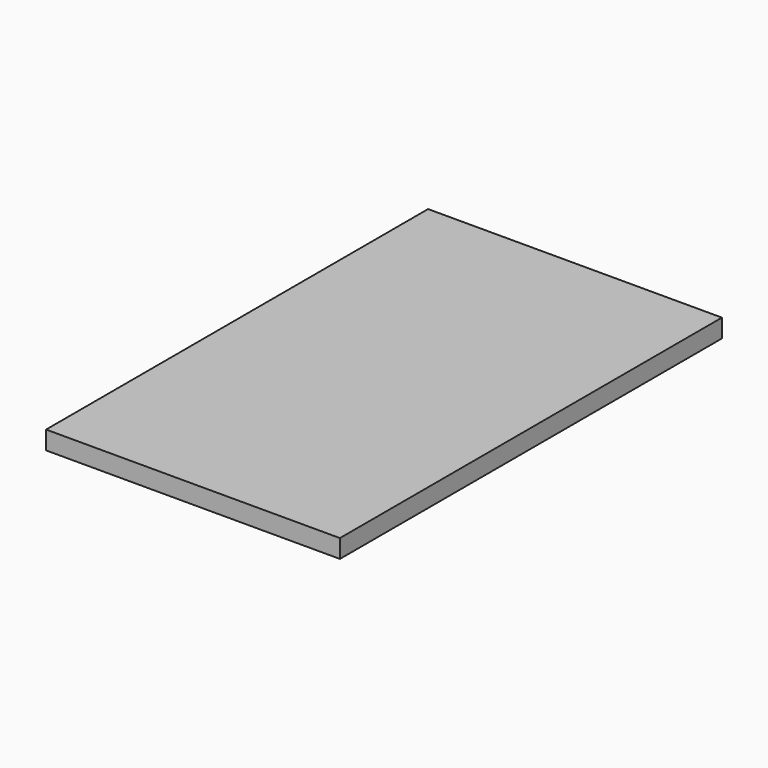
from build123d import *

# Parameters (mm, degrees)
F0_W     = 50.8
F0_H     = 82.55
F3_DEPTH = 3.175
F4_D     = 26.19502
F5_DEPTH = 50.8


with BuildPart() as f3:
    # F0 (on Top) → F3 (new body)
    with BuildSketch(Plane.XY):
        Rectangle(F0_W, F0_H)
    extrude(amount=-F3_DEPTH)

    # F4 (through all)
    with Locations(Plane.XY):
        with Locations((0, -22.225)):
            Hole(F4_D / 2)

    # F5 (add): a face of the model
    f5_faces = [f3.faces().sort_by_distance(p)[0] for p in [
        (25.4, 0, -1.5875),
    ]]
    extrude(f5_faces, amount=-F5_DEPTH)


solid = f3.part
